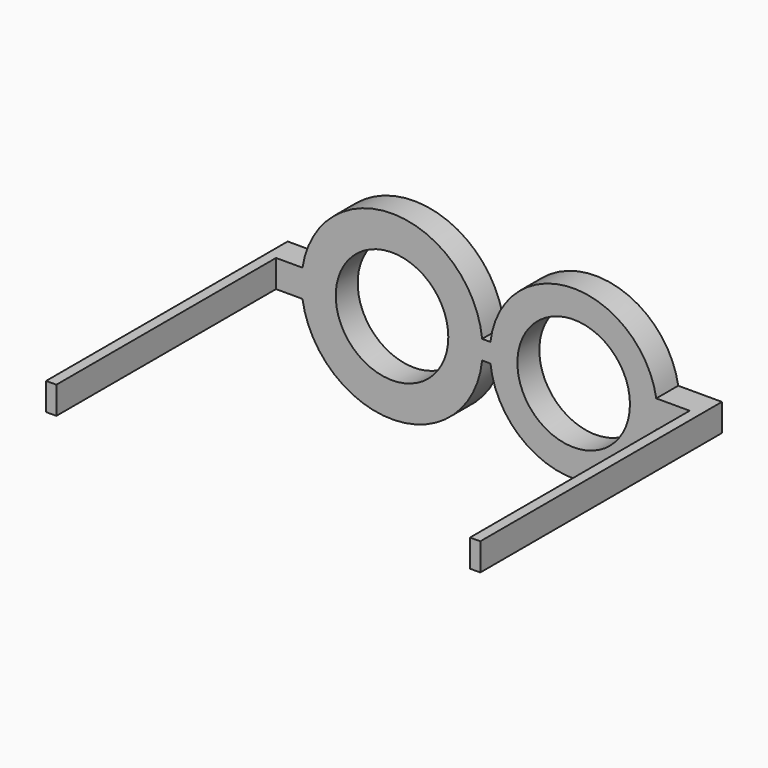
from build123d import *

# Parameters (mm, degrees)
F0_R     = 8.2
F1_DEPTH = 4
F2_W     = 1.5
F2_H     = 4
F3_DEPTH = 40


with BuildPart() as f1:
    # F0 (on Front) → F1 (new body)
    with BuildSketch(Plane.XZ):
        with BuildLine():
            Line((-18.4, -2), (-13.047605, -2))
            ThreePointArc((-13.047605, -2), (0.310613, -13.196345), (13.127255, -1.3839))
            Line((13.127255, -1.3839), (14.340745, -1.3839))
            ThreePointArc((14.340745, -1.3839), (26.150942, -12.196034), (38.496949, -2))
            Line((38.496949, -2), (44.862, -2))
            Line((44.862, -2), (44.862, 2))
            Line((44.862, 2), (38.496949, 2))
            ThreePointArc((38.496949, 2), (26.150942, 12.196034), (14.340745, 1.3839))
            Line((14.340745, 1.3839), (13.127255, 1.3839))
            ThreePointArc((13.127255, 1.3839), (0.310613, 13.196345), (-13.047605, 2))
            Line((-13.047605, 2), (-18.4, 2))
            Line((-18.4, 2), (-18.4, -2))
        make_face()
        Circle(F0_R, mode=Mode.SUBTRACT)
        with Locations((26.462, 0)):
            Circle(F0_R, mode=Mode.SUBTRACT)
    extrude(amount=F1_DEPTH)

    # F2 (on face) → F3 (join)
    with BuildSketch(Plane.XZ.offset(4)):
        with Locations((-17.65, 0)):
            Rectangle(F2_W, F2_H)
        with Locations((44.112, 0)):
            Rectangle(F2_W, F2_H)
    extrude(amount=F3_DEPTH)


solid = f1.part
